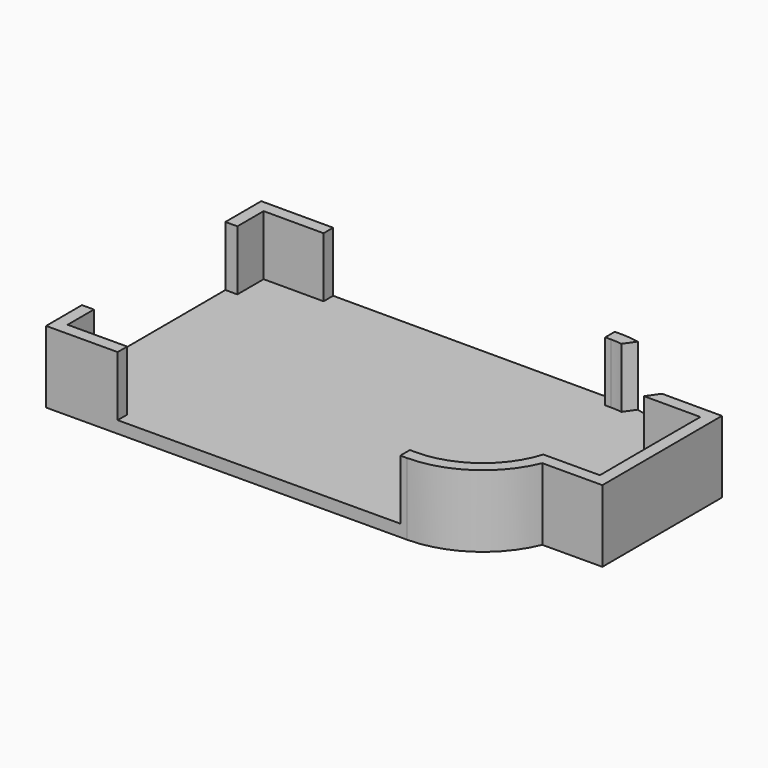
from build123d import *

# Parameters (mm, degrees)
F1_DEPTH  = 2
F3_DEPTH  = 10
F4_W      = 30
F4_H      = 10
F5_DEPTH  = 1.9956371739
F4_H_2    = 50
F6_DEPTH  = 25
F8_DEPTH  = 50
F9_W      = 47
F9_H      = 10
F10_DEPTH = 45.0007863305
F11_SCALE = 1.06


with BuildPart() as f1:
    # F0 (on Top) → F1 (new body)
    with BuildSketch(Plane.XY):
        with BuildLine():
            Line((60, 22.5), (0, 22.5))
            Line((0, 22.5), (0.09805652, -22.4997863305))
            Line((0.09805652, -22.4997863305), (60.0974867347, -22.2383022772))
            ThreePointArc((60.0974867347, -22.2383022772), (68.9331965187, -19.52097203), (74.7776478239, -12.3588466471))
            Line((74.7776478239, -12.3588466471), (84.7775528597, -12.3152659716))
            Line((84.7775528597, -12.3152659716), (84.7230770152, 12.6846153232))
            Line((84.7230770152, 12.6846153232), (74.7230770152, 12.6846153232))
            ThreePointArc((74.7230770152, 12.6846153232), (68.8474681852, 19.8212021779), (60, 22.5))
        make_face()
    extrude(amount=F1_DEPTH)

    # F2 (on face) → F3 (join)
    with BuildSketch(Plane.XY.offset(2)):
        with BuildLine():
            Line((0.09805652, -22.4997863305), (60.0974867347, -22.2383022772))
            ThreePointArc((60.0974867347, -22.2383022772), (68.9331965187, -19.52097203), (74.7776478239, -12.3588466471))
            Line((74.7776478239, -12.3588466471), (84.7775528597, -12.3152659716))
            Line((84.7775528597, -12.3152659716), (84.7230770152, 12.6846153232))
            Line((84.7230770152, 12.6846153232), (74.7230770152, 12.6846153232))
            ThreePointArc((74.7230770152, 12.6846153232), (68.8474681852, 19.8212021779), (60, 22.5))
            Line((60, 22.5), (0, 22.5))
            Line((0, 22.5), (0.09805652, -22.4997863305))
        make_face()
        with BuildLine():
            Line((2, 20.5), (60, 20.5))
            ThreePointArc((60, 20.5), (68.2741953452, 17.7812150693), (73.3231924886, 10.6846153232))
            Line((73.3231924886, 10.6846153232), (82.7230770152, 10.6846153232))
            Line((82.7230770152, 10.6846153232), (82.7230770152, 0.1802572349))
            Line((82.7230770152, 0.1802572349), (82.7688557174, -10.3240010995))
            Line((82.7688557174, -10.3240010995), (73.3690604561, -10.3649664313))
            ThreePointArc((73.3690604561, -10.3649664313), (68.3510387212, -17.4835026557), (60.0887705996, -20.23832127))
            Line((60.0887705996, -20.23832127), (2.0893213921, -20.4910891882))
            Line((2.0893213921, -20.4910891882), (2, 20.5))
        make_face(mode=Mode.SUBTRACT)
    extrude(amount=F3_DEPTH)

    # F4 (on face) → F5 (cut, through all)
    with BuildSketch(Plane(origin=(0.04902826, 0.0001068347, 0), x_dir=(0.002179039, -0.9999976259, 0), z_dir=(-0.9999976259, -0.002179039, 0))):
        with Locations((0, 7)):
            Rectangle(F4_W, F4_H)
    extrude(amount=-F5_DEPTH, mode=Mode.SUBTRACT)

    # F4 (on face) → F6 (cut)
    with BuildSketch(Plane(origin=(0.04902826, 0.0001068347, 0), x_dir=(0.002179039, -0.9999976259, 0), z_dir=(-0.9999976259, -0.002179039, 0))):
        with Locations((0, 27)):
            Rectangle(F4_W, F4_H_2)
    extrude(amount=-F6_DEPTH, mode=Mode.SUBTRACT)

    # F7 (on face) → F8 (cut)
    with BuildSketch(Plane.XY.offset(2)):
        Polygon((56.9224528048, 13.4114075262), (69.6910599869, 5.4954265969), (86.4650020105, 29.460177553), (73.6963948284, 37.3761584823), align=None)
    extrude(amount=F8_DEPTH, mode=Mode.SUBTRACT)

    # F9 (on face) → F10 (cut, through all)
    with BuildSketch(Plane(origin=(0, 22.5, 0), x_dir=(-1, 0, 0), z_dir=(0, 1, 0))):
        with Locations((-35.5, 7)):
            Rectangle(F9_W, F9_H)
    extrude(amount=-F10_DEPTH, mode=Mode.SUBTRACT)


with BuildPart() as f1_1:
    # F11: moved
    add(f1.part.scale(F11_SCALE))


solid = f1_1.part
